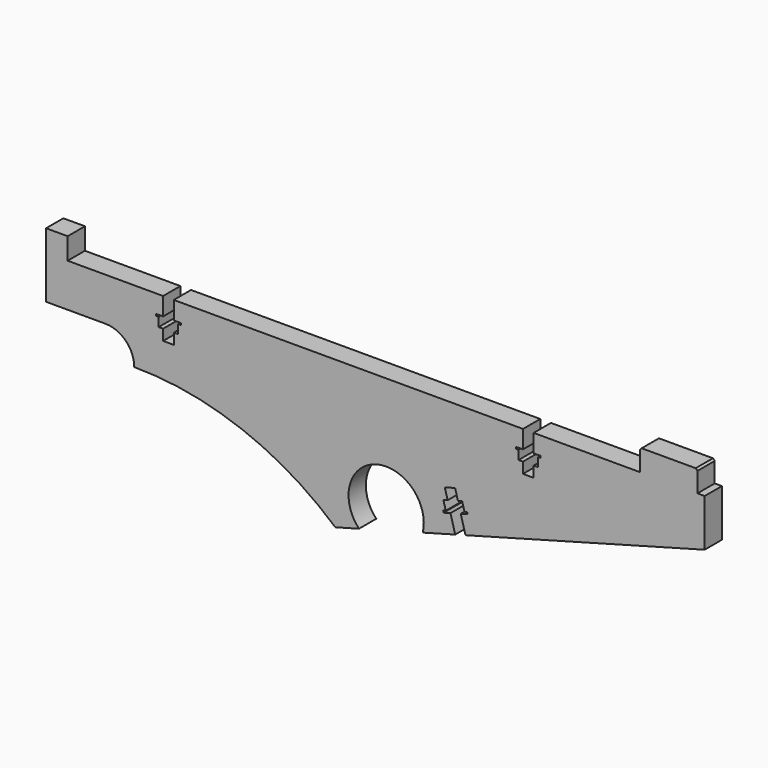
from build123d import *

# Parameters (mm, degrees)
PAD_DEPTH = 6


with BuildPart() as part:
    # Sketch065 → Pad (new body)
    with BuildSketch(Plane.XZ):
        with BuildLine():
            Line((98.728543, -6.368136), (100.629625, -5.85162))
            Line((100.629625, -5.85162), (100.498529, -5.369112))
            Line((100.498529, -5.369112), (99.774767, -5.565755))
            Line((99.774767, -5.565755), (99.11929, -3.153215))
            Line((99.11929, -3.153215), (97.94197, -3.473088))
            Line((97.94197, -3.473088), (97.155397, -0.57804))
            Line((97.155397, -0.57804), (94.29895, -1.354126))
            Line((94.29895, -1.354126), (95.085523, -4.249174))
            Line((95.085523, -4.249174), (93.908203, -4.569047))
            Line((93.908203, -4.569047), (94.563681, -6.981587))
            Line((94.563681, -6.981587), (93.839919, -7.17823))
            Line((93.839919, -7.17823), (93.971015, -7.660738))
            Line((93.971015, -7.660738), (95.872096, -7.144222))
            Line((95.872096, -7.144222), (97.183051, -11.969302))
            Line((88.166127, -14.419165), (97.183051, -11.969302))
            ThreePointArc((88.166127, -14.419165), (75.260104, -1.915583), (70.455783, -19.230995))
            Line((63.870699, -21.020137), (70.455783, -19.230995))
            ThreePointArc((63.870699, -21.020137), (37.847032, -5.428893), (8, 0))
            ThreePointArc((8, 0), (5.656854, 5.656854), (-1e-06, 8))
            Line((-16.5, 8), (-1e-06, 8))
            Line((-16.5, 26), (-16.5, 8))
            Line((-10.5, 26), (-16.5, 26))
            Line((-10.5, 20), (-10.5, 26))
            Line((16.02, 20), (-10.5, 20))
            Line((16.02, 15), (16.02, 20))
            Line((14.05, 15), (16.02, 15))
            Line((14.05, 14.5), (14.05, 15))
            Line((14.8, 14.5), (14.05, 14.5))
            Line((14.8, 12), (14.8, 14.5))
            Line((16.02, 12), (14.8, 12))
            Line((16.02, 9), (16.02, 12))
            Line((18.98, 9), (16.02, 9))
            Line((18.98, 12), (18.98, 9))
            Line((20.2, 12), (18.98, 12))
            Line((20.2, 14.5), (20.2, 12))
            Line((20.95, 14.5), (20.2, 14.5))
            Line((20.95, 15), (20.95, 14.5))
            Line((18.98, 15), (20.95, 15))
            Line((18.98, 20), (18.98, 15))
            Line((116.02, 20), (18.98, 20))
            Line((116.02, 15), (116.02, 20))
            Line((114.05, 15), (116.02, 15))
            Line((114.05, 14.5), (114.05, 15))
            Line((114.8, 14.5), (114.05, 14.5))
            Line((114.8, 12), (114.8, 14.5))
            Line((116.02, 12), (114.8, 12))
            Line((116.02, 9), (116.02, 12))
            Line((118.98, 9), (116.02, 9))
            Line((118.98, 12), (118.98, 9))
            Line((120.2, 12), (118.98, 12))
            Line((120.2, 14.5), (120.2, 12))
            Line((120.95, 14.5), (120.2, 14.5))
            Line((120.95, 15), (120.95, 14.5))
            Line((118.98, 15), (120.95, 15))
            Line((118.98, 20), (118.98, 15))
            Line((148.5, 20), (118.98, 20))
            Line((148.5, 25.5), (148.5, 20))
            Line((149, 26), (148.5, 25.5))
            Line((164, 26), (149, 26))
            Line((164.5, 25.5), (164, 26))
            Line((164.5, 20), (164.5, 25.5))
            Line((166.5, 20), (164.5, 20))
            Line((166.5, 6.86384), (166.5, 20))
            Line((100.039499, -11.193216), (166.5, 6.86384))
            Line((100.039499, -11.193216), (98.728543, -6.368136))
        make_face()
    extrude(amount=PAD_DEPTH)


solid = part.part
